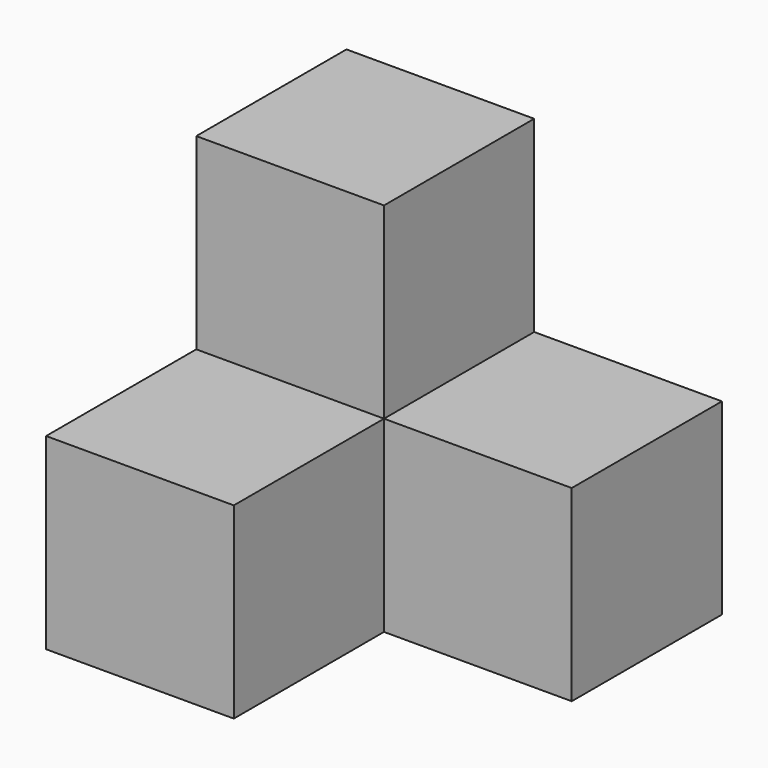
from build123d import *

# Parameters (mm, degrees)
F0_W     = 19.05
F0_H     = 19.05
F1_DEPTH = 19.05
F2_W     = 19.05
F2_H     = 19.05
F3_DEPTH = 19.05


with BuildPart() as f1:
    # F0 (on Front) → F1 (new body)
    with BuildSketch(Plane.XZ):
        Rectangle(F0_W, F0_H)
        Polygon((28.575, -9.525), (9.525, -9.525), (-9.525, -9.525), (-9.525, -28.575), (28.575, -28.575), align=None)
    extrude(amount=F1_DEPTH)

    # F2 (on face) → F3 (join)
    with BuildSketch(Plane.XZ.offset(19.05)):
        with Locations((0, -19.05)):
            Rectangle(F2_W, F2_H)
    extrude(amount=F3_DEPTH)


solid = f1.part
